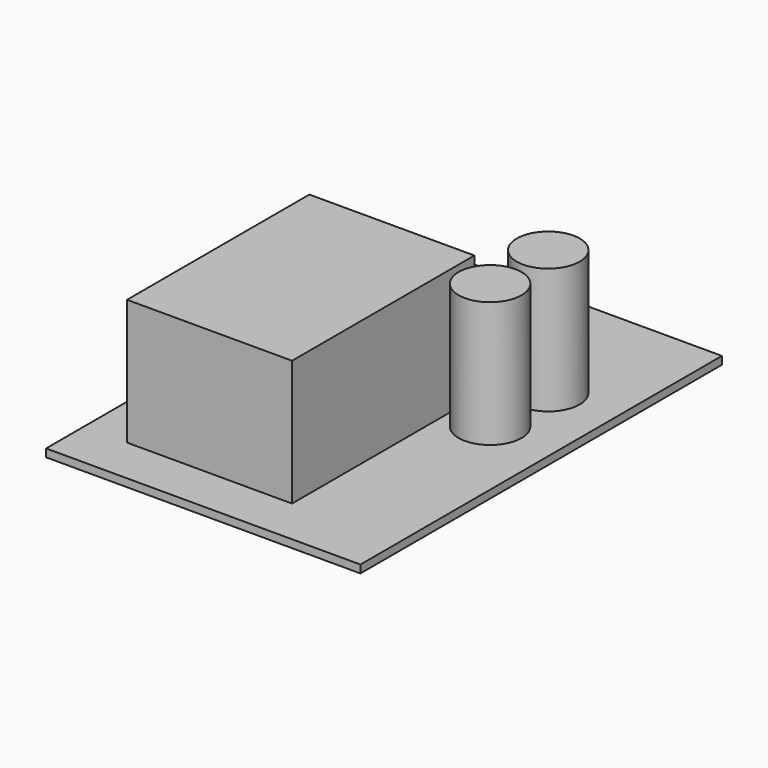
from build123d import *

# Parameters (mm, degrees)
F0_W     = 80
F0_H     = 115
F1_DEPTH = 1
F2_W     = 42
F2_H     = 58
F2_R     = 8
F3_DEPTH = 32


with BuildPart() as f1:
    # F0 (on Top) → F1 (new body, symmetric)
    with BuildSketch(Plane.XY):
        Rectangle(F0_W, F0_H)
    extrude(amount=F1_DEPTH, both=True)

    # F2 (on face) → F3 (join)
    with BuildSketch(Plane.XY.offset(1)):
        with Locations((-8, -16.5)):
            Rectangle(F2_W, F2_H)
        with Locations((23, 23.5)):
            Circle(F2_R)
        with Locations((23, 4.998494)):
            Circle(F2_R)
    extrude(amount=F3_DEPTH)


solid = f1.part
